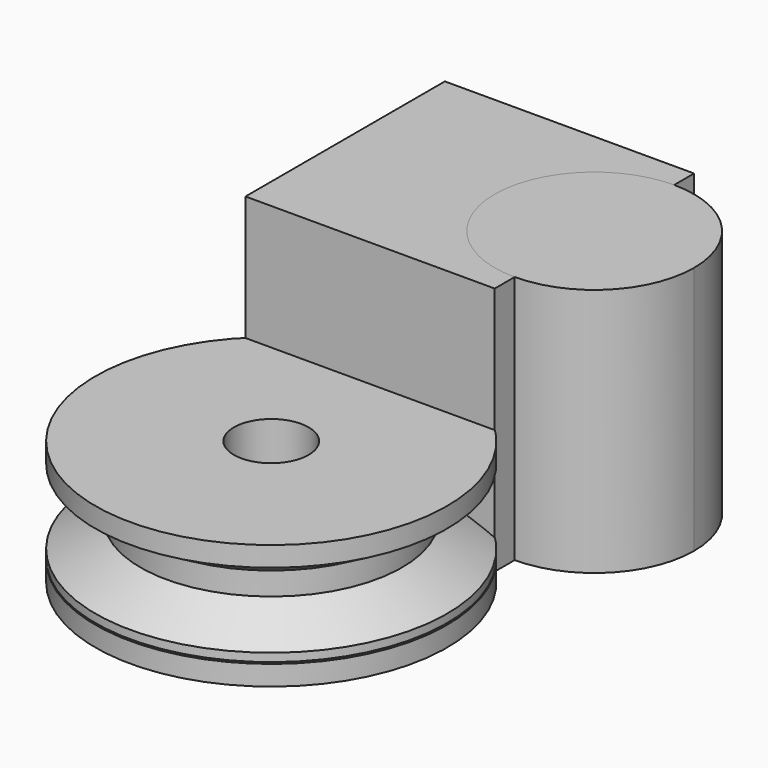
from build123d import *

# Parameters (mm, degrees)
F1_DEPTH = 50
F2_DEPTH = 50
F5_R     = 7.5
F6_DEPTH = 25.001


with BuildPart() as f1:
    # F0 (on Top) → F1 (new body)
    with BuildSketch(Plane.XY):
        with BuildLine():
            Line((25, 25), (-25, 25))
            Line((-25, 25), (-25, -25))
            Line((-25, -25), (25, -25))
            Line((25, -25), (25, -20))
            ThreePointArc((25, -20), (5, 0), (25, 20))
            Line((25, 20), (25, 25))
        make_face()
    extrude(amount=F1_DEPTH)


with BuildPart() as f2:
    # F0 (on Top) → F2 (new body)
    with BuildSketch(Plane.XY):
        with BuildLine():
            Line((25, -20), (25, 20))
            ThreePointArc((25, 20), (5, 0), (25, -20))
        make_face()
        with BuildLine():
            ThreePointArc((45, 0), (39.1421356237, 14.1421356237), (25, 20))
            Line((25, 20), (25, -20))
            ThreePointArc((25, -20), (39.1421356237, -14.1421356237), (45, 0))
        make_face()
    extrude(amount=F2_DEPTH)


with BuildPart() as f4:
    # F3 (on Right) → F4 (revolve)
    with BuildSketch(Plane.YZ):
        Polygon((-49.78545174, 0), (-14.5096211135, 0), (-14.5096211135, 4), (-23.5452078595, 4), (-23.5452078595, 4.3302592875), (-14.5096211135, 4.3302592875), (-14.5096211135, 5.9853854659), (-23.5452078595, 11.2020839059), (-23.5452078595, 15.78330156), (-14.5096211135, 21), (-14.5096211135, 25), (-49.78545174, 25), align=None)
    revolve(axis=Axis((0, -49.78545174, 12.5), (0, 0, 1)))

    # F5 (on face) → F6 (cut, through all)
    with BuildSketch(Plane.XY.offset(25)):
        with Locations((0, -49.78545174)):
            Circle(F5_R)
    extrude(amount=-F6_DEPTH, mode=Mode.SUBTRACT)


solid = Compound([f1.part, f2.part, f4.part])
